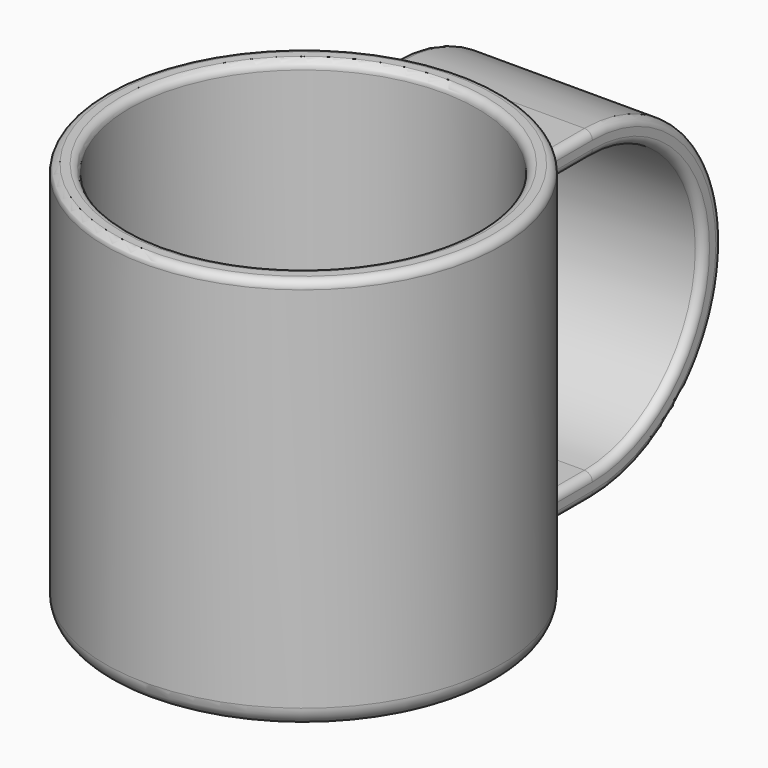
from build123d import *

# Parameters (mm, degrees)
PAD_DEPTH           = 6
LINEARPATTERN_COUNT = 2
LINEARPATTERN_PITCH = 76
PAD001_DEPTH        = 25
FILLET_R            = 2
FILLET001_R         = 2
FILLET002_R         = 5


with BuildPart() as part:
    # Sketch → Revolution (revolve)
    with BuildSketch(Plane.XZ):
        Polygon((-50, 100), (-50, 0), (0, 0), (0, 4), (-44, 4), (-44, 100), align=None)
    revolve(axis=Axis((0, 0, 0), (0, 0, 1)))

    # Sketch001 → Pad (new body)
    with BuildSketch(Plane.XY.offset(9)):
        with BuildLine():
            Line((-25, 60), (25, 60))
            Line((25, 60), (25, 43.30127))
            ThreePointArc((25, 43.30127), (0, 50), (-25, 43.30127))
            Line((-25, 43.30127), (-25, 60))
        make_face()
    pad = extrude(amount=PAD_DEPTH)

    # LinearPattern: Pad ×2
    with Locations(*[(0, 0, i * LINEARPATTERN_PITCH) for i in range(1, LINEARPATTERN_COUNT)]):
        add(pad)

    # Sketch002 → Pad001 (join, symmetric)
    with BuildSketch(Plane.YZ):
        with BuildLine():
            ThreePointArc((60, 15), (95, 50), (60, 85))
            Line((60, 91), (60, 85))
            ThreePointArc((60, 9), (101, 50), (60, 91))
            Line((60, 15), (60, 9))
        make_face()
    extrude(amount=PAD001_DEPTH, both=True)

    # Fillet
    fillet_edges = [part.edges().sort_by_distance(p)[0] for p in [
        (50, 0, 100),
        (44, 0, 100),
        (44, 0, 4),
        (25, 95, 50),
        (25, 101, 50),
        (-25, 95, 50),
        (-25, 101, 50),
    ]]
    fillet(fillet_edges, radius=FILLET_R)

    # Fillet001
    fillet001_edges = [part.edges().sort_by_distance(p)[0] for p in [
        (0, 50, 91),
        (0, 50, 85),
        (0, 50, 15),
        (0, 50, 9),
    ]]
    fillet(fillet001_edges, radius=FILLET001_R)

    # Fillet002
    fillet002_edges = [part.edges().sort_by_distance(p)[0] for p in [
        (50, 0, 0),
    ]]
    fillet(fillet002_edges, radius=FILLET002_R)


solid = part.part
